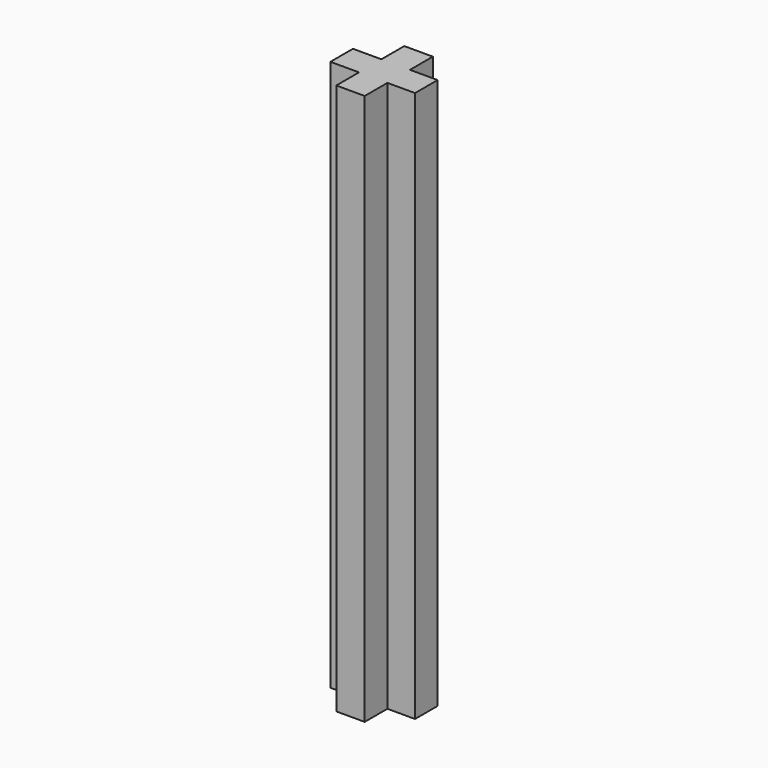
from build123d import *

# Parameters (mm, degrees)
F0_W     = 1.598067
F0_H     = 1.596714
F0_W_2   = 1.554564
F0_H_2   = 1.5875
F1_DEPTH = 30.999938


with BuildPart() as f1:
    # F0 (on Top) → F1 (new body)
    with BuildSketch(Plane.XY):
        Polygon((-1.21276, -1.837012), (-2.81296, -1.837012), (-2.81296, -3.424512), (-1.203091, -3.424512), (0.394976, -3.424512), (0.394976, -1.837012), (0.34934, -1.837012), align=None)
        Polygon((-1.21276, -0.229868), (-1.21276, -1.837012), (0.34934, -1.837012), (0.394976, -1.837012), (0.394976, -0.229868), align=None)
        with Locations((-0.404057, -4.222869)):
            Rectangle(F0_W, F0_H)
        with Locations((1.172258, -2.630762)):
            Rectangle(F0_W_2, F0_H_2)
    extrude(amount=F1_DEPTH)


solid = f1.part
